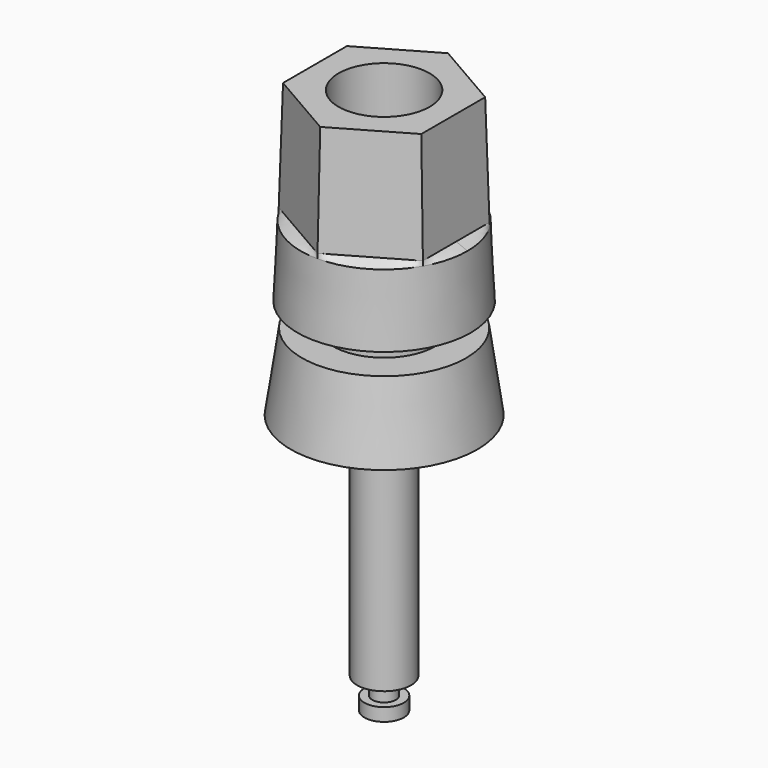
from build123d import *

# Parameters (mm, degrees)
SKETCH001_R          = 7.325
SKETCH002_R          = 7.05
SKETCH003_R          = 7.05
SKETCH007_R          = 3.85
POCKET_DEPTH         = 9.3
SKETCH017_R          = 4.3
POCKET007_DEPTH      = 6.9
SKETCH011_R          = 2
POCKET002_DEPTH      = 13
SKETCH012_R          = 1.18
POCKET003_DEPTH      = 3.001
POCKET003_DEPTH_BACK = -3.001
SKETCH015_R          = 3.25
POCKET005_DEPTH      = 0.5
POCKET005_DEPTH_BACK = -2.5
POCKET006_DEPTH      = 0.501
SKETCH020_R          = 4.3
POCKET009_DEPTH      = 4
SKETCH018_R          = 4.3
PAD_DEPTH            = 6.9
SKETCH019_R          = 3
POCKET008_DEPTH      = 6.901
SKETCH022_R          = 4.3
PAD001_DEPTH         = 4.5
SKETCH021_R          = 2.275
POCKET010_DEPTH      = 4.501


with BuildPart() as body:
    # Sketch001 (on DatumPlane) → AdditiveLoft section 0
    with BuildSketch(Plane.XY.offset(0.5)):
        Circle(SKETCH001_R)
    # Sketch002 (on DatumPlane) → AdditiveLoft section 1
    with BuildSketch(Plane.XY.offset(6.5)):
        Circle(SKETCH002_R)
    loft()

    # Sketch003 (on DatumPlane) → AdditiveLoft001 section 0
    with BuildSketch(Plane.XY.offset(6.5)):
        Circle(SKETCH003_R)
    # Sketch004 (on DatumPlane) → AdditiveLoft001 section 1
    with BuildSketch(Plane.XY.offset(6.9)):
        Polygon((0, 7.043673), (-6.1, 3.521837), (-6.1, -3.521837), (0, -7.043673), (6.1, -3.521837), (6.1, 3.521837), align=None)
    loft()

    # Sketch005 (on DatumPlane) → AdditiveLoft002 section 0
    with BuildSketch(Plane.XY.offset(6.9)):
        Polygon((0, 7.043673), (-6.1, 3.521837), (-6.1, -3.521837), (0, -7.043673), (6.1, -3.521837), (6.1, 3.521837), align=None)
    # Sketch006 (on DatumPlane) → AdditiveLoft002 section 1
    with BuildSketch(Plane.XY.offset(16.2)):
        Polygon((0, 6.754998), (-5.85, 3.377499), (-5.85, -3.377499), (0, -6.754998), (5.85, -3.377499), (5.85, 3.377499), align=None)
    loft()

    # Sketch007 (on DatumPlane) → Pocket (cut)
    with BuildSketch(Plane.XY.offset(16.2)):
        Circle(SKETCH007_R)
    extrude(amount=-POCKET_DEPTH, mode=Mode.SUBTRACT)

    # Sketch017 → Pocket007 (cut)
    with BuildSketch(Plane.XY):
        Circle(SKETCH017_R)
    extrude(amount=POCKET007_DEPTH, mode=Mode.SUBTRACT)


with BuildPart() as body_1:
    # Body placement: moved
    add(body.part.moved(Location((0, 0, 8))))


with BuildPart() as body001:
    # Sketch010 → Revolution (revolve)
    with BuildSketch(Plane.XZ):
        Polygon((0, 20.48), (3, 20.48), (3, 7), (2.275, 7), (2.275, -19.4), (1, -19.4), (1, -20.9), (1.665, -20.9), (1.665, -22), (0, -22), align=None)
    revolve(axis=Axis((0, 0, 0), (0, 0, 1)))

    # Sketch011 (on DatumPlane) → Pocket002 (cut)
    with BuildSketch(Plane.XY.offset(20.48)):
        Circle(SKETCH011_R)
    extrude(amount=-POCKET002_DEPTH, mode=Mode.SUBTRACT)

    # Sketch012 → Pocket003 (cut, two sides)
    with BuildSketch(Plane.XZ) as pocket003_sk:
        with Locations((0, 8.6)):
            Circle(SKETCH012_R)
    extrude(amount=-POCKET003_DEPTH, mode=Mode.SUBTRACT)
    extrude(pocket003_sk.sketch, amount=-POCKET003_DEPTH_BACK, mode=Mode.SUBTRACT)


with BuildPart() as body002:
    # Sketch013 → Revolution001 (revolve)
    with BuildSketch(Plane.XZ):
        Polygon((6.95, 6.5), (7.9, 0), (6.35, 0), (6.35, -0.5), (0, -0.5), (0, 6.5), align=None)
    revolve(axis=Axis((0, 0, 0), (0, 0, 1)))

    # Sketch015 → Pocket005 (cut, two sides)
    with BuildSketch(Plane.XY) as pocket005_sk:
        Circle(SKETCH015_R)
    extrude(amount=-POCKET005_DEPTH, mode=Mode.SUBTRACT)
    extrude(pocket005_sk.sketch, amount=-POCKET005_DEPTH_BACK, mode=Mode.SUBTRACT)

    # Sketch016 → Pocket006 (cut, through all)
    with BuildSketch(Plane.XY):
        with BuildLine():
            Line((-5.54, 3.103369), (-5.54, -3.103369))
            ThreePointArc((-5.54, 3.103369), (-6.35, 0), (-5.54, -3.103369))
        make_face()
    extrude(amount=-POCKET006_DEPTH, mode=Mode.SUBTRACT)

    # Sketch020 (on DatumPlane) → Pocket009 (cut)
    with BuildSketch(Plane.XY.offset(6.5)):
        Circle(SKETCH020_R)
    extrude(amount=-POCKET009_DEPTH, mode=Mode.SUBTRACT)


with BuildPart() as body003:
    # Sketch018 → Pad (new body)
    with BuildSketch(Plane.XY):
        Circle(SKETCH018_R)
    extrude(amount=PAD_DEPTH)

    # Sketch019 → Pocket008 (cut, through all)
    with BuildSketch(Plane.XY):
        Circle(SKETCH019_R)
    extrude(amount=POCKET008_DEPTH, mode=Mode.SUBTRACT)


with BuildPart() as body003_1:
    # Body003 placement: moved
    add(body003.part.moved(Location((0, 0, 8))))


with BuildPart() as body004:
    # Sketch022 → Pad001 (new body)
    with BuildSketch(Plane.XY):
        Circle(SKETCH022_R)
    extrude(amount=PAD001_DEPTH)

    # Sketch021 → Pocket010 (cut, through all)
    with BuildSketch(Plane.XY):
        Circle(SKETCH021_R)
    extrude(amount=POCKET010_DEPTH, mode=Mode.SUBTRACT)


with BuildPart() as body004_1:
    # Body004 placement: moved
    add(body004.part.moved(Location((0, 0, 2.5))))


solid = Compound([body_1.part, body001.part, body002.part, body003_1.part, body004_1.part])
